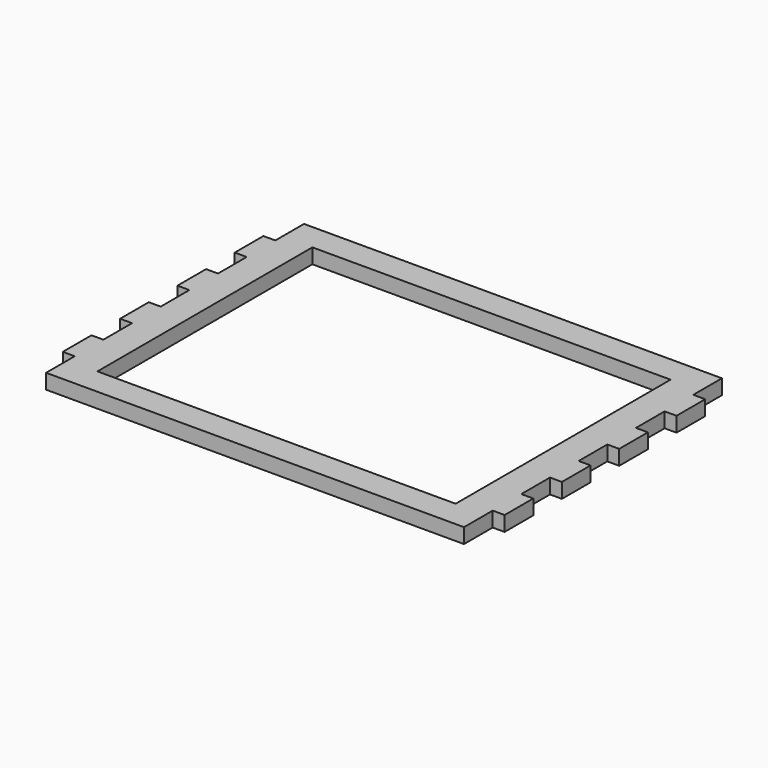
from build123d import *

# Parameters (mm, degrees)
F0_W     = 152.4
F0_H     = 114.3
F1_DEPTH = 6.35


with BuildPart() as f1:
    # F0 (on Top) → F1 (new body)
    with BuildSketch(Plane.XY):
        Polygon((89.058206, 53.613756), (89.058206, 68.853756), (-88.741794, 68.853756), (-88.741794, 53.613756), (-93.821794, 53.613756), (-93.821794, 38.373756), (-88.741794, 38.373756), (-88.741794, 23.133756), (-93.821794, 23.133756), (-93.821794, 7.893756), (-88.741794, 7.893756), (-88.741794, -7.346244), (-93.821794, -7.346244), (-93.821794, -22.586244), (-88.741794, -22.586244), (-88.741794, -37.826244), (-93.821794, -37.826244), (-93.821794, -53.066244), (-88.741794, -53.066244), (-88.741794, -68.306244), (89.058206, -68.306244), (89.058206, -53.066244), (94.138206, -53.066244), (94.138206, -37.826244), (89.058206, -37.826244), (89.058206, -22.586244), (94.138206, -22.586244), (94.138206, -7.346244), (89.058206, -7.346244), (89.058206, 7.893756), (94.138206, 7.893756), (94.138206, 23.133756), (89.058206, 23.133756), (89.058206, 38.373756), (94.138206, 38.373756), (94.138206, 53.613756), align=None)
        with Locations((0.158206, 0.273756)):
            Rectangle(F0_W, F0_H, mode=Mode.SUBTRACT)
    extrude(amount=F1_DEPTH)


solid = f1.part
